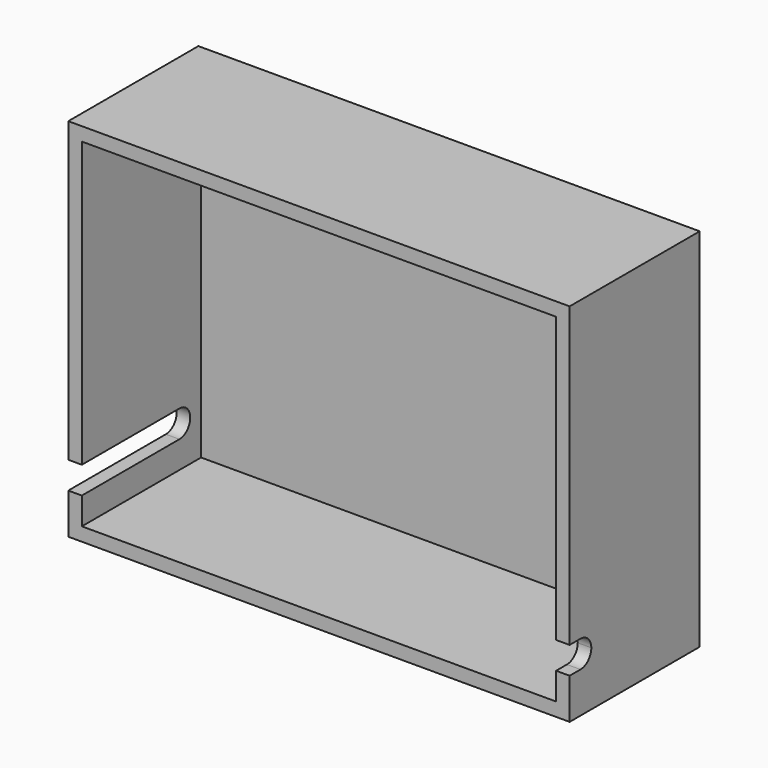
from build123d import *

# Parameters (mm, degrees)
F0_W     = 185
F0_H     = 135
F1_DEPTH = 60
F2_W     = 175
F2_H     = 125
F3_DEPTH = 55
F5_DEPTH = 25
F7_DEPTH = 25


with BuildPart() as f1:
    # F0 (on Front) → F1 (new body)
    with BuildSketch(Plane.XZ):
        with Locations((92.5, 67.5)):
            Rectangle(F0_W, F0_H)
    extrude(amount=F1_DEPTH)

    # F2 (on face) → F3 (cut)
    with BuildSketch(Plane.XZ.offset(60)):
        with Locations((92.5, 67.5)):
            Rectangle(F2_W, F2_H)
    extrude(amount=-F3_DEPTH, mode=Mode.SUBTRACT)

    # F4 (on face) → F5 (cut)
    with BuildSketch(Plane.YZ.offset(185)):
        with BuildLine():
            ThreePointArc((-55, 15), (-51.4644660941, 16.4644660941), (-50, 20))
            ThreePointArc((-50, 20), (-51.4644660941, 23.5355339059), (-55, 25))
            Line((-55, 25), (-55, 15))
        make_face()
        with BuildLine():
            Line((-55, 15), (-55, 25))
            ThreePointArc((-55, 25), (-60, 20), (-55, 15))
        make_face()
        with BuildLine():
            ThreePointArc((-55, 15), (-60, 20), (-55, 25))
            Line((-55, 25), (-65, 25))
            Line((-65, 25), (-65, 15))
            Line((-65, 15), (-55, 15))
        make_face()
    extrude(amount=-F5_DEPTH, mode=Mode.SUBTRACT)

    # F6 (on face) → F7 (cut)
    with BuildSketch(Plane(origin=(0, 0, 0), x_dir=(0, -1, 0), z_dir=(-1, 0, 0))):
        with BuildLine():
            Line((60, 15), (60, 25))
            Line((60, 25), (15, 25))
            ThreePointArc((15, 25), (18.5355339059, 23.5355339059), (20, 20))
            ThreePointArc((20, 20), (18.5355339059, 16.4644660941), (15, 15))
            Line((15, 15), (60, 15))
        make_face()
        with BuildLine():
            ThreePointArc((20, 20), (18.5355339059, 23.5355339059), (15, 25))
            Line((15, 25), (15, 15))
            ThreePointArc((15, 15), (18.5355339059, 16.4644660941), (20, 20))
        make_face()
        with BuildLine():
            Line((15, 15), (15, 25))
            ThreePointArc((15, 25), (10, 20), (15, 15))
        make_face()
    extrude(amount=-F7_DEPTH, mode=Mode.SUBTRACT)


solid = f1.part
